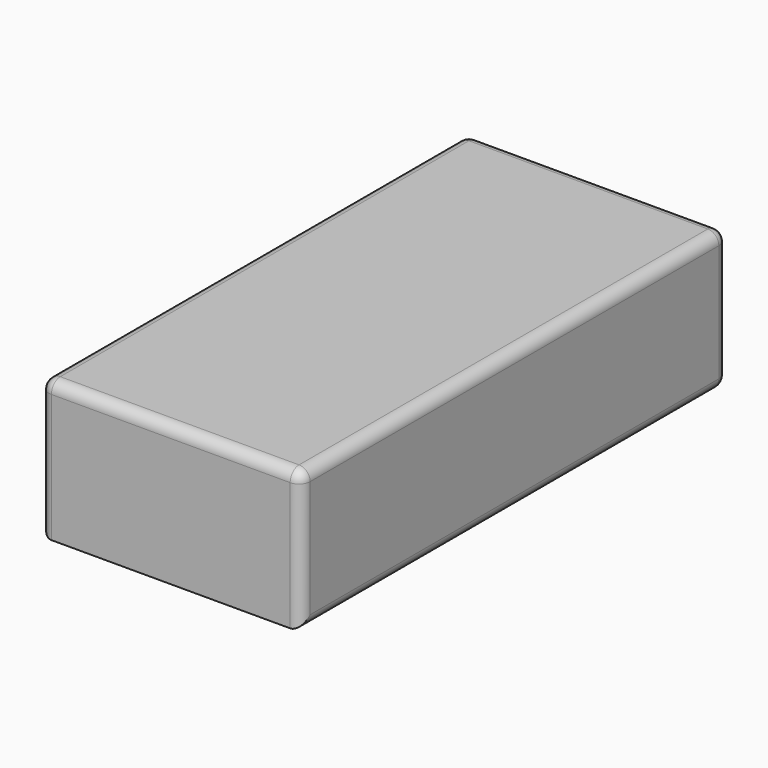
from build123d import *

# Parameters (mm, degrees)
F0_W     = 47
F0_H     = 96
F1_DEPTH = 25.1
F2_R     = 2


with BuildPart() as f1:
    # F0 (on Top) → F1 (new body)
    with BuildSketch(Plane.XY):
        Rectangle(F0_W, F0_H)
    extrude(amount=F1_DEPTH)

    # F2
    f2_edges = [f1.edges().sort_by_distance(p)[0] for p in [
        (-23.5, -48, 12.55),
        (0, -48, 25.1),
        (-23.5, 0, 25.1),
        (23.5, 0, 25.1),
        (23.5, -48, 12.55),
        (23.5, 0, 0),
        (23.5, 48, 12.55),
        (0, 48, 25.1),
        (-23.5, 48, 12.55),
        (-23.5, 0, 0),
        (0, 48, 0),
    ]]
    fillet(f2_edges, radius=F2_R)


solid = f1.part
